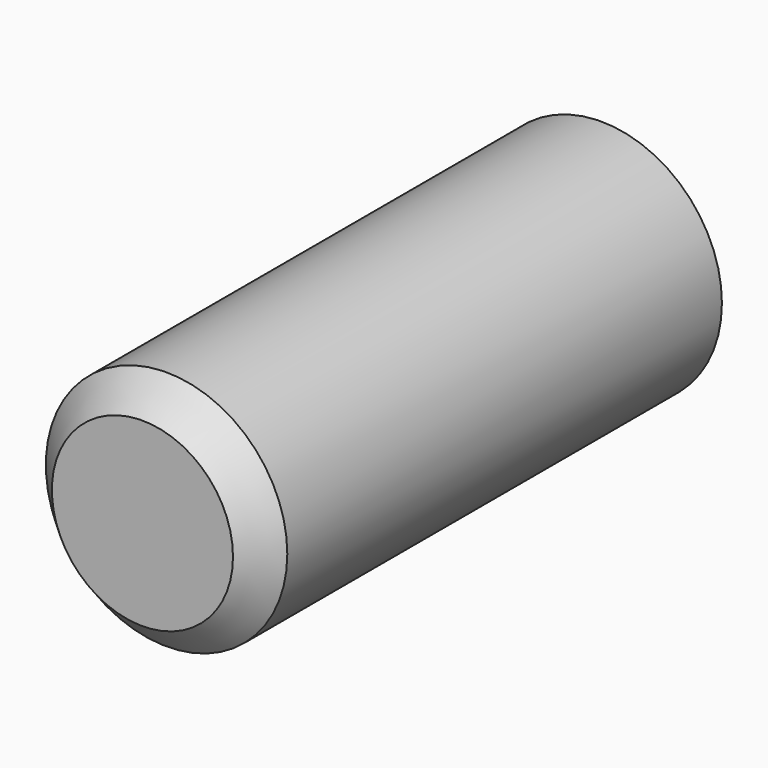
from build123d import *

# Parameters (mm, degrees)
F0_R     = 4
F1_DEPTH = 19
F2_SIZE  = 1


with BuildPart() as f1:
    # F0 (on Front) → F1 (new body)
    with BuildSketch(Plane.XZ):
        Circle(F0_R)
    extrude(amount=F1_DEPTH)

    # F2
    f2_edges = [f1.edges().sort_by_distance(p)[0] for p in [
        (-4, -19, 0),
    ]]
    chamfer(f2_edges, length=F2_SIZE)


solid = f1.part
